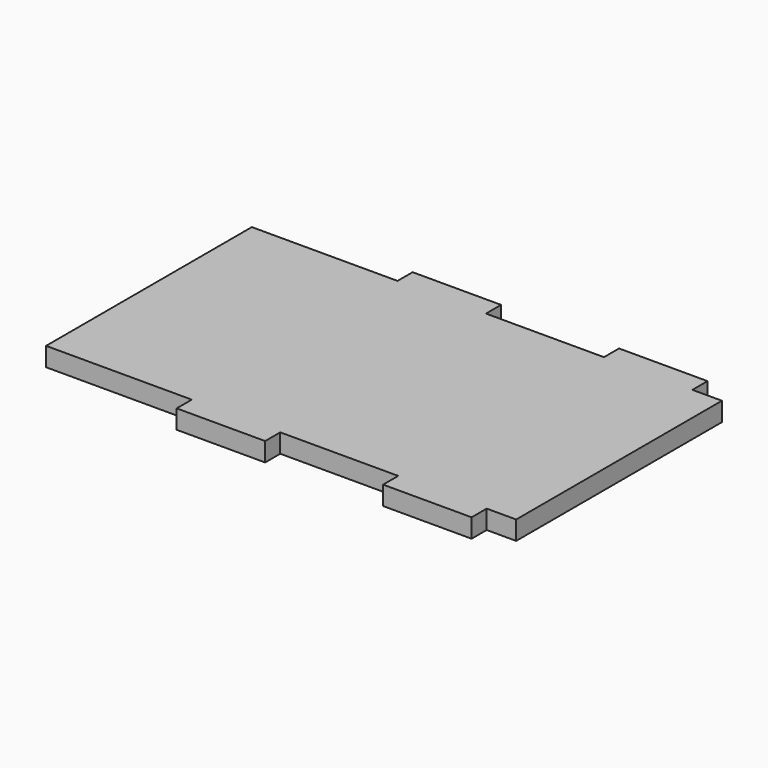
from build123d import *

# Parameters (mm, degrees)
F0_W     = 15
F0_H     = 3.2
F1_DEPTH = 3.2


with BuildPart() as f1:
    # F0 (on Top) → F1 (new body)
    with BuildSketch(Plane.XY):
        Polygon((28.25105, 0), (33.25105, 0), (33.25105, 43.6), (28.25105, 43.6), (13.25105, 43.6), (-6.74895, 43.6), (-21.74895, 43.6), (-46.44895, 43.6), (-46.44895, 0), (-21.74895, 0), (-6.74895, 0), (13.25105, 0), align=None)
        with Locations((20.75105, -1.6)):
            Rectangle(F0_W, F0_H)
        with Locations((20.75105, 45.2)):
            Rectangle(F0_W, F0_H)
        with Locations((-14.24895, -1.6)):
            Rectangle(F0_W, F0_H)
        with Locations((-14.24895, 45.2)):
            Rectangle(F0_W, F0_H)
    extrude(amount=F1_DEPTH)


solid = f1.part
